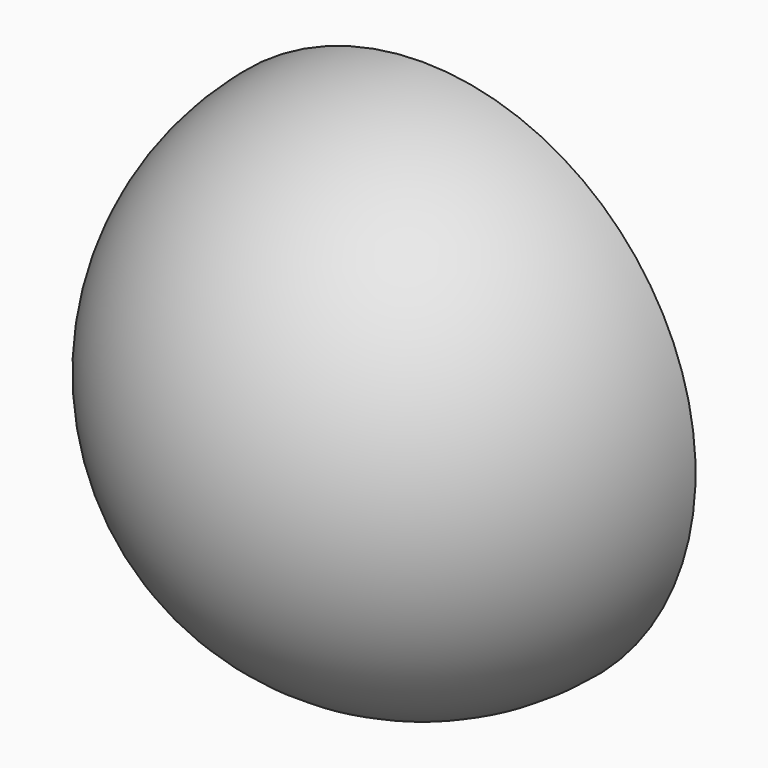
from build123d import *

# Parameters (mm, degrees)
F3_DEPTH = 12.7


with BuildPart() as f1:
    # F0 (on Front) → F1 (revolve)
    with BuildSketch(Plane.XZ):
        with BuildLine():
            Line((0, 0), (0, 12.7))
            ThreePointArc((0, 12.7), (-12.7, 0), (0, -12.7))
            Line((0, -12.7), (0, 0))
        make_face()
    revolve(axis=Axis((0, 0, 6.35), (0, 0, 1)))

    # F2 (on Front) → F3 (cut)
    with BuildSketch(Plane.XZ):
        Polygon((32.144523, 32.144523), (-32.144523, 32.144523), (-32.144523, 0), (-32.144523, -32.144523), (32.144523, -32.144523), align=None)
    extrude(amount=-F3_DEPTH, mode=Mode.SUBTRACT)


with BuildPart() as f4_1:
    # F4: copy of F1
    add(f1.part)


solid = Compound([f1.part, f4_1.part])
